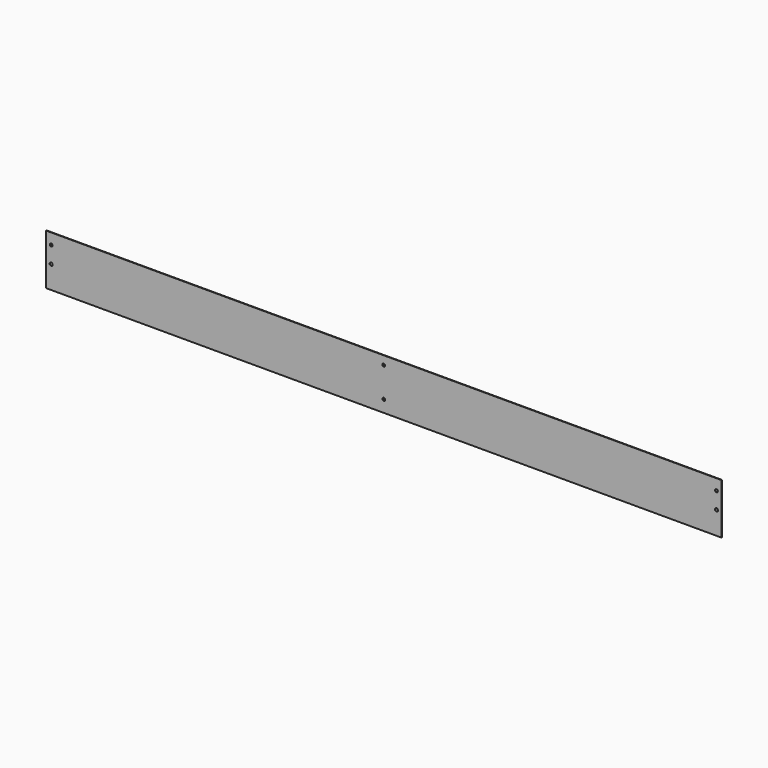
from build123d import *

# Parameters (mm, degrees)
F0_R     = 4.619431
F0_R_2   = 4.1
F1_DEPTH = 1.5


with BuildPart() as f1:
    # F0 (on Front) → F1 (new body)
    with BuildSketch(Plane.XZ):
        Polygon((871.154863, 514.200147), (-1128.845137, 514.200147), (-1128.845137, 489.044532), (-1128.845137, 364.200147), (871.154863, 364.200147), align=None)
        with Locations((-1113.845137, 431.700101)):
            Circle(F0_R, mode=Mode.SUBTRACT)
        with Locations((-128.845137, 399.700101)):
            Circle(F0_R_2, mode=Mode.SUBTRACT)
        with Locations((856.199606, 431.704204)):
            Circle(F0_R, mode=Mode.SUBTRACT)
        with Locations((-1113.845137, 481.700101)):
            Circle(F0_R_2, mode=Mode.SUBTRACT)
        with Locations((-128.845137, 488.700101)):
            Circle(F0_R_2, mode=Mode.SUBTRACT)
        with Locations((856.175182, 481.700101)):
            Circle(F0_R_2, mode=Mode.SUBTRACT)
    extrude(amount=F1_DEPTH)


solid = f1.part
